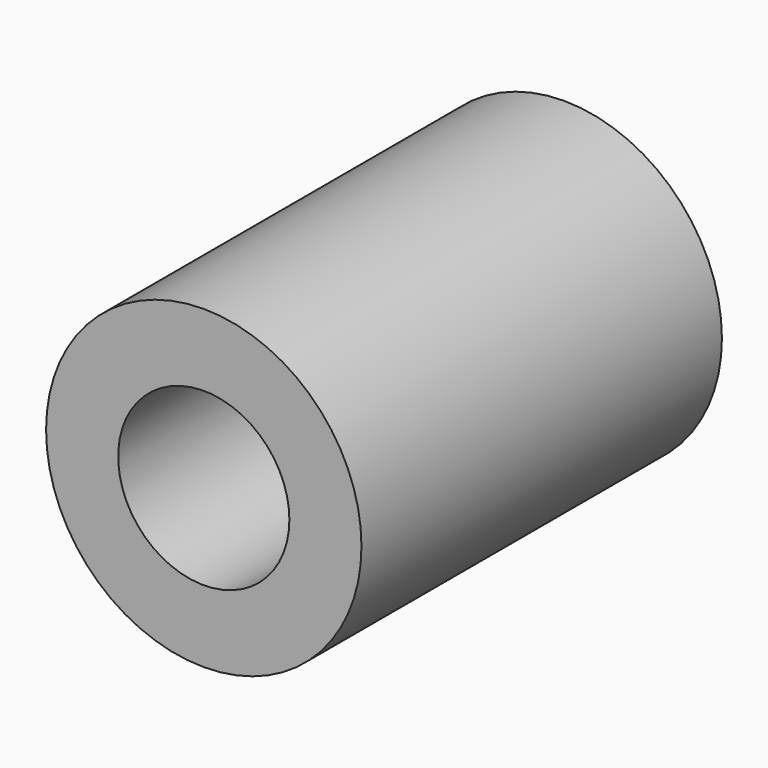
from build123d import *

# Parameters (mm, degrees)
SKETCH_R        = 17.5
PAD_DEPTH       = 50
SKETCH001_R     = 9.5
POCKET_DEPTH    = 18.5
SKETCH002_R     = 5
POCKET001_DEPTH = 18.5


with BuildPart() as part:
    # Sketch → Pad (new body)
    with BuildSketch(Plane.XZ):
        Circle(SKETCH_R)
    extrude(amount=PAD_DEPTH)

    # Sketch001 (on Face3 of Pad) → Pocket (cut)
    with BuildSketch(Plane.XZ.offset(50)):
        Circle(SKETCH001_R)
    extrude(amount=-POCKET_DEPTH, mode=Mode.SUBTRACT)

    # Sketch002 (on Face2 of Pocket) → Pocket001 (cut)
    with BuildSketch(Plane(origin=(0, 0, 0), x_dir=(1, 0, 0), z_dir=(0, 1, 0))):
        Circle(SKETCH002_R)
    extrude(amount=-POCKET001_DEPTH, mode=Mode.SUBTRACT)


solid = part.part
